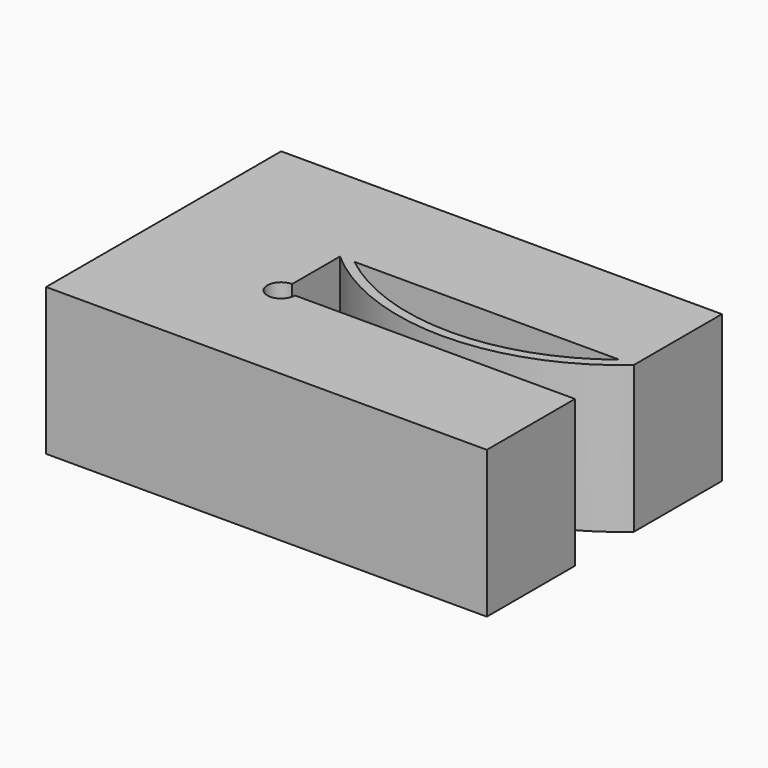
from build123d import *

# Parameters (mm, degrees)
F1_DEPTH = 12.7


with BuildPart() as f1:
    # F0 (on Top) → F1 (new body)
    with BuildSketch(Plane.XY):
        with BuildLine():
            Line((-19.05, 12.7), (-19.05, -12.7))
            Line((-19.05, -12.7), (19.05, -12.7))
            Line((19.05, -12.7), (19.05, -3.175))
            Line((19.05, -3.175), (-5.159375, -3.175))
            ThreePointArc((-5.159375, -3.175), (-7.1918990114, -4.0168990114), (-6.35, -1.984375))
            Line((-6.35, -1.984375), (-6.35, 3.175))
            ThreePointArc((-6.35, 3.175), (-10.0319970522, 7.4955975212), (-12.2989024476, 12.7))
            Line((-12.2989024476, 12.7), (-19.05, 12.7))
        make_face()
        with BuildLine():
            Line((-11.4711365721, 12.7), (-12.2989024476, 12.7))
            ThreePointArc((-12.2989024476, 12.7), (-10.0319970522, 7.4955975212), (-6.35, 3.175))
            Line((-6.35, 3.175), (-5.0999496165, 3.175))
            ThreePointArc((-5.0999496165, 3.175), (-9.0409235562, 7.4322327931), (-11.4711365721, 12.7))
        make_face()
        with BuildLine():
            Line((19.05, 12.7), (-11.4711365721, 12.7))
            ThreePointArc((-11.4711365721, 12.7), (-9.0409235562, 7.4322327931), (-5.0999496165, 3.175))
            Line((-5.0999496165, 3.175), (17.7999496165, 3.175))
            ThreePointArc((17.7999496165, 3.175), (18.4369792221, 3.6996313607), (19.05, 4.2521259842))
            Line((19.05, 4.2521259842), (19.05, 12.7))
        make_face()
        with BuildLine():
            Line((17.7999496165, 3.175), (19.05, 3.175))
            Line((19.05, 3.175), (19.05, 4.2521259842))
            ThreePointArc((19.05, 4.2521259842), (18.4369792221, 3.6996313607), (17.7999496165, 3.175))
        make_face()
        with BuildLine():
            ThreePointArc((-6.35, 3.175), (6.35, -1.5875), (19.05, 3.175))
            Line((19.05, 3.175), (17.7999496165, 3.175))
            ThreePointArc((17.7999496165, 3.175), (6.35, -0.7895166667), (-5.0999496165, 3.175))
            Line((-5.0999496165, 3.175), (-6.35, 3.175))
        make_face()
    extrude(amount=F1_DEPTH)


solid = f1.part
